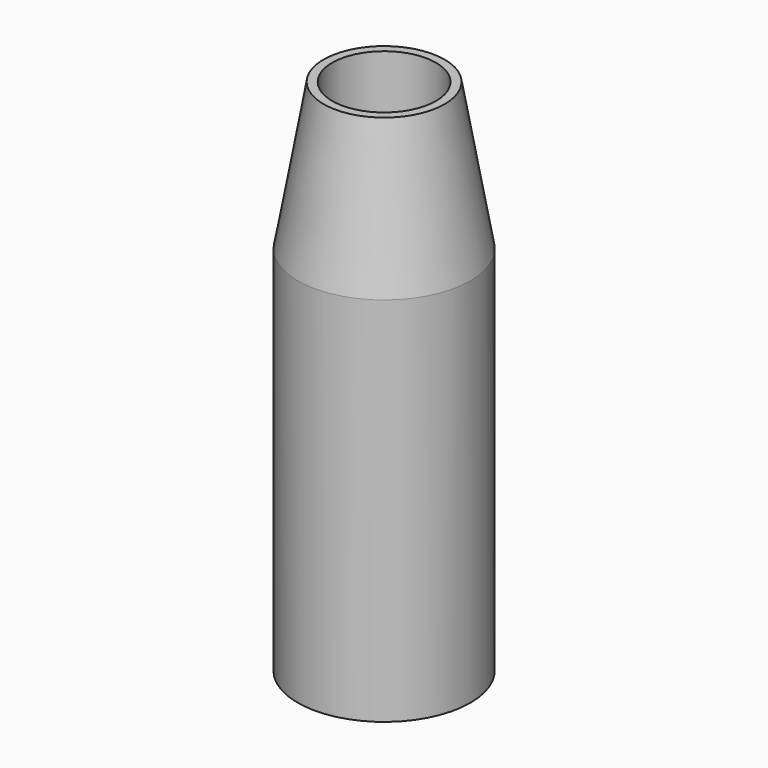
from build123d import *

# Parameters (mm, degrees)
F0_R     = 2.54
F1_DEPTH = 1.27
F2_R     = 2.54
F2_R_2   = 1.524
F3_DEPTH = 13.97
F4_SIZE2 = 4.3215167465
F4_SIZE  = 0.762


with BuildPart() as f1:
    # F0 (on Top) → F1 (new body)
    with BuildSketch(Plane.XY):
        Circle(F0_R)
    extrude(amount=F1_DEPTH)

    # F2 (on face) → F3 (join)
    with BuildSketch(Plane.XY.offset(1.27)):
        Circle(F2_R)
        Circle(F2_R_2, mode=Mode.SUBTRACT)
    extrude(amount=F3_DEPTH)

    # F4
    f4_edges = [f1.edges().sort_by_distance(p)[0] for p in [
        (-2.54, 0, 15.24),
    ]]
    f4_side = f1.faces().sort_by_distance((-2.468158, 0, 15.24))[0]
    chamfer(f4_edges, length=F4_SIZE, length2=F4_SIZE2, reference=f4_side)


solid = f1.part
